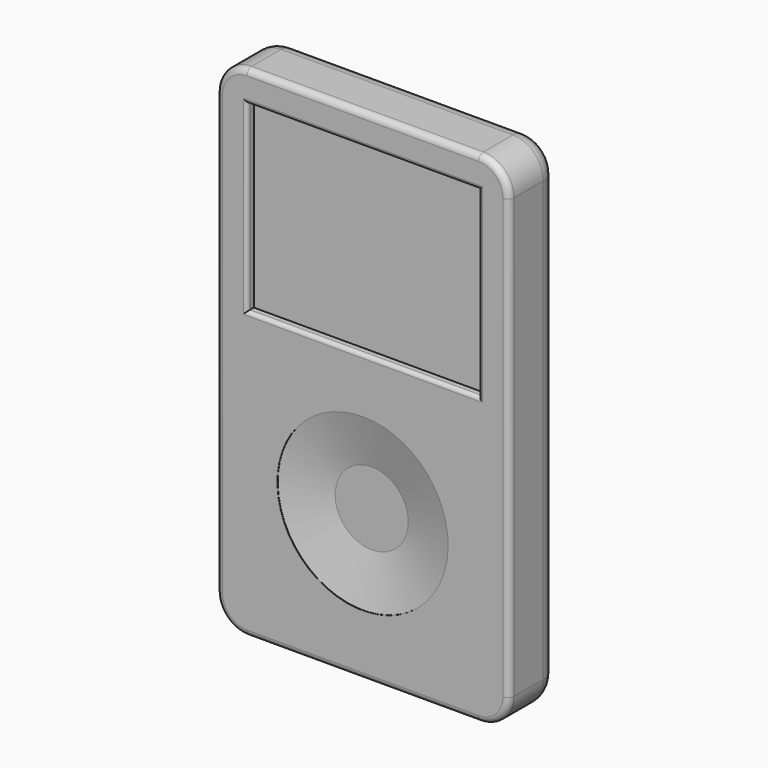
from build123d import *

# Parameters (mm, degrees)
F0_R     = 17.78
F0_W     = 48.26
F0_H     = 38.1
F0_R_2   = 7.62
F1_DEPTH = 12.7
F5_W     = 48.26
F5_H     = 38.1
F6_DEPTH = 10.922
F7_R     = 3.81
F8_R     = 1.27
F9_R     = 0.762


with BuildPart() as f1:
    # F0 (on Front) → F1 (new body)
    with BuildSketch(Plane.XZ):
        with BuildLine():
            Line((24.13, 44.45), (-24.13, 44.45))
            ThreePointArc((-24.13, 44.45), (-28.620128, 42.590128), (-30.48, 38.1))
            Line((-30.48, 38.1), (-30.48, -53.34))
            ThreePointArc((-30.48, -53.34), (-28.620128, -57.830128), (-24.13, -59.69))
            Line((-24.13, -59.69), (24.13, -59.69))
            ThreePointArc((24.13, -59.69), (28.620128, -57.830128), (30.48, -53.34))
            Line((30.48, -53.34), (30.48, 38.1))
            ThreePointArc((30.48, 38.1), (28.620128, 42.590128), (24.13, 44.45))
        make_face()
        with Locations((0, -29.21)):
            Circle(F0_R, mode=Mode.SUBTRACT)
        with Locations((0, 19.05)):
            Rectangle(F0_W, F0_H, mode=Mode.SUBTRACT)
        with Locations((0, -29.21)):
            Circle(F0_R)
        with Locations((0, -29.21)):
            Circle(F0_R_2, mode=Mode.SUBTRACT)
        with Locations((0, -29.21)):
            Circle(F0_R_2)
    extrude(amount=F1_DEPTH)

    # F3 (on Right) → F4 (revolve, cut)
    with BuildSketch(Plane.YZ):
        Polygon((-16.624968, -29.21), (-10.382934, -29.21), (-10.382934, -21.59), (-12.636651, -11.43), (-16.624968, -11.43), align=None)
    revolve(axis=Axis((0, -8.021076, -29.21), (0, 1, 0)), mode=Mode.SUBTRACT)

    # F5 (on Front) → F6 (join)
    with BuildSketch(Plane.XZ):
        with Locations((0, 19.05)):
            Rectangle(F5_W, F5_H)
    extrude(amount=F6_DEPTH)

    # F7
    f7_edges = [f1.edges().sort_by_distance(p)[0] for p in [
        (28.620128, 0, 42.590128),
    ]]
    fillet(f7_edges, radius=F7_R)

    # F8
    f8_edges = [f1.edges().sort_by_distance(p)[0] for p in [
        (28.620128, -12.7, 42.590128),
    ]]
    fillet(f8_edges, radius=F8_R)

    # F9
    f9_edges = [f1.edges().sort_by_distance(p)[0] for p in [
        (0, -12.7, 0),
        (-24.13, -12.7, 19.05),
        (0, -12.7, 38.1),
        (24.13, -12.7, 19.05),
    ]]
    fillet(f9_edges, radius=F9_R)


solid = f1.part
